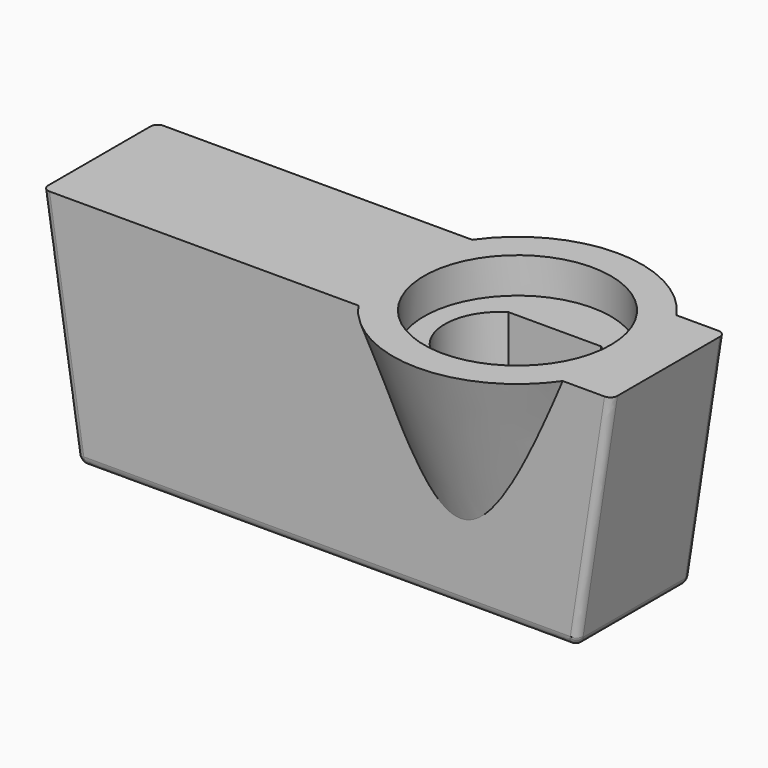
from build123d import *

# Parameters (mm, degrees)
SKETCH_W        = 28
SKETCH_H        = 8
SKETCH001_W     = 32
SKETCH001_H     = 8
FILLET_R        = 0.5
FILLET001_R     = 0.4
SKETCH002_R     = 7
SKETCH003_R     = 2.5
SKETCH004_R     = 5.25
POCKET_DEPTH    = 2
POCKET001_DEPTH = 3.1
SKETCH006_R     = 1.75
POCKET002_DEPTH = 7.901
SKETCH007_R     = 2.75
POCKET003_DEPTH = 3


with BuildPart() as part:
    # Sketch → AdditiveLoft section 0
    with BuildSketch(Plane.XY):
        Rectangle(SKETCH_W, SKETCH_H)
    # Sketch001 (on DatumPlane) → AdditiveLoft section 1
    with BuildSketch(Plane.XY.offset(13)):
        Rectangle(SKETCH001_W, SKETCH001_H)
    loft()

    # Fillet
    fillet_edges = [part.edges().sort_by_distance(p)[0] for p in [
        (-14, 0, 0),
        (0, -4, 0),
        (14, 0, 0),
        (0, 4, 0),
    ]]
    fillet(fillet_edges, radius=FILLET_R)

    # Fillet001
    fillet001_edges = [part.edges().sort_by_distance(p)[0] for p in [
        (-15.038462, 4, 6.75),
        (-15.038462, -4, 6.75),
        (15.038462, -4, 6.75),
        (15.038462, 4, 6.75),
    ]]
    fillet(fillet001_edges, radius=FILLET001_R)

    # Sketch002 (on Face6 of Fillet001) → AdditiveLoft001 section 0
    with BuildSketch(Plane.XY.offset(13)):
        with Locations((7.5, 0)):
            Circle(SKETCH002_R)
    # Sketch003 (on Face5 of Fillet001) → AdditiveLoft001 section 1
    with BuildSketch(Plane(origin=(0, 0, 0), x_dir=(1, 0, 0), z_dir=(0, 0, -1))):
        with Locations((7.5, 0)):
            Circle(SKETCH003_R)
    loft()

    # Sketch004 (on Face16 of AdditiveLoft001) → Pocket (cut)
    with BuildSketch(Plane.XY.offset(13)):
        with Locations((7.5, 0)):
            Circle(SKETCH004_R)
    extrude(amount=-POCKET_DEPTH, mode=Mode.SUBTRACT)

    # Sketch005 (on Face32 of Pocket) → Pocket001 (cut)
    with BuildSketch(Plane.XY.offset(11)):
        with BuildLine():
            Line((4.9, 2.625), (10.1, 2.625))
            ThreePointArc((10.1, -2.625), (11.574187, 0), (10.1, 2.625))
            Line((4.9, -2.625), (10.1, -2.625))
            ThreePointArc((4.9, 2.625), (3.425813, 0), (4.9, -2.625))
        make_face()
    extrude(amount=-POCKET001_DEPTH, mode=Mode.SUBTRACT)

    # Sketch006 (on Face37 of Pocket001) → Pocket002 (cut, through all)
    with BuildSketch(Plane.XY.offset(7.9)):
        with Locations((7.5, 0)):
            Circle(SKETCH006_R)
    extrude(amount=-POCKET002_DEPTH, mode=Mode.SUBTRACT)

    # Sketch007 (on Face5 of Pocket002) → Pocket003 (cut)
    with BuildSketch(Plane(origin=(0, 0, 0), x_dir=(1, 0, 0), z_dir=(0, 0, -1))):
        with Locations((7.5, 0)):
            Circle(SKETCH007_R)
    extrude(amount=-POCKET003_DEPTH, mode=Mode.SUBTRACT)


solid = part.part
